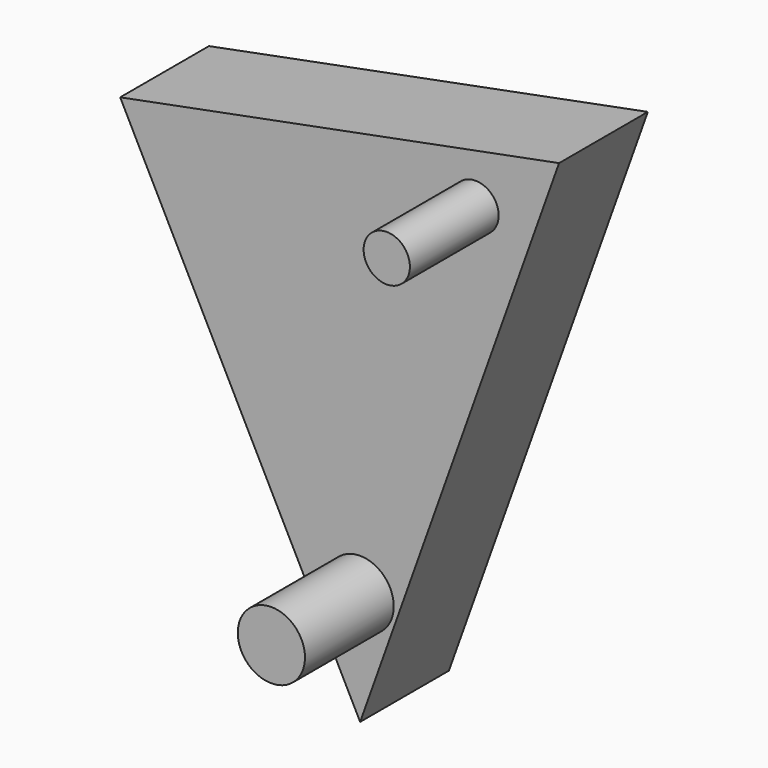
from build123d import *

# Parameters (mm, degrees)
F1_DEPTH = 50.8
F3_R     = 7.692996
F3_R_2   = 5.299029
F4_DEPTH = 25.4


with BuildPart() as f1:
    # F0 (on Front) → F1 (new body)
    with BuildSketch(Plane.XZ):
        Polygon((-54.934867, 108.016424), (0, 0), (45.540601, 127.430171), align=None)
    extrude(amount=F1_DEPTH)

    # F3 (on face) → F4 (cut)
    with BuildSketch(Plane.XZ.offset(50.8)):
        Polygon((0, 0), (45.540601, 127.430171), (-54.934867, 108.016424), align=None)
        with Locations((0, 25.794625)):
            Circle(F3_R, mode=Mode.SUBTRACT)
        with Locations((26.412565, 112.375937)):
            Circle(F3_R_2, mode=Mode.SUBTRACT)
    extrude(amount=-F4_DEPTH, mode=Mode.SUBTRACT)


solid = f1.part
